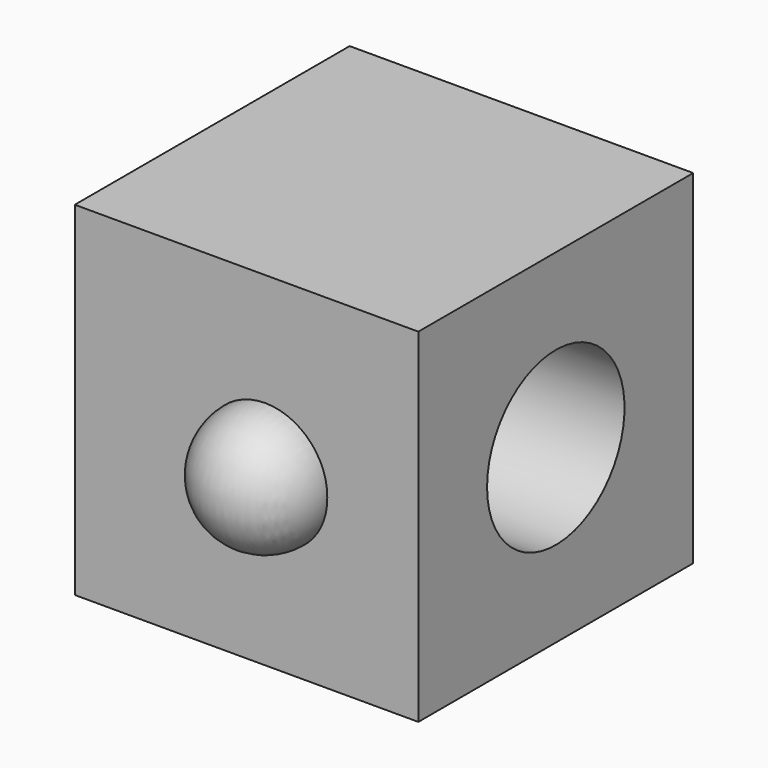
from build123d import *

# Parameters (mm, degrees)
F0_W     = 40
F0_H     = 40
F1_DEPTH = 40
F2_R     = 10
F3_DEPTH = 40.001


with BuildPart() as f1:
    # F0 (on Front) → F1 (new body)
    with BuildSketch(Plane.XZ):
        with Locations((20, 20)):
            Rectangle(F0_W, F0_H)
    extrude(amount=F1_DEPTH)

    # F2 (on face) → F3 (cut, through all)
    with BuildSketch(Plane(origin=(0, 0, 0), x_dir=(0, -1, 0), z_dir=(-1, 0, 0))):
        with Locations((20, 20)):
            Circle(F2_R)
    extrude(amount=-F3_DEPTH, mode=Mode.SUBTRACT)

    # F4 (on face) → F5 (revolve)
    with BuildSketch(Plane.XZ.offset(40)):
        with BuildLine():
            ThreePointArc((29.395014, 19.543692), (22.16222, 26.88829), (14.929425, 19.543692))
            Line((14.929425, 19.543692), (29.395014, 19.543692))
        make_face()
    revolve(axis=Axis((22.16222, -40, 19.543692), (1, 0, 0)))


solid = f1.part
